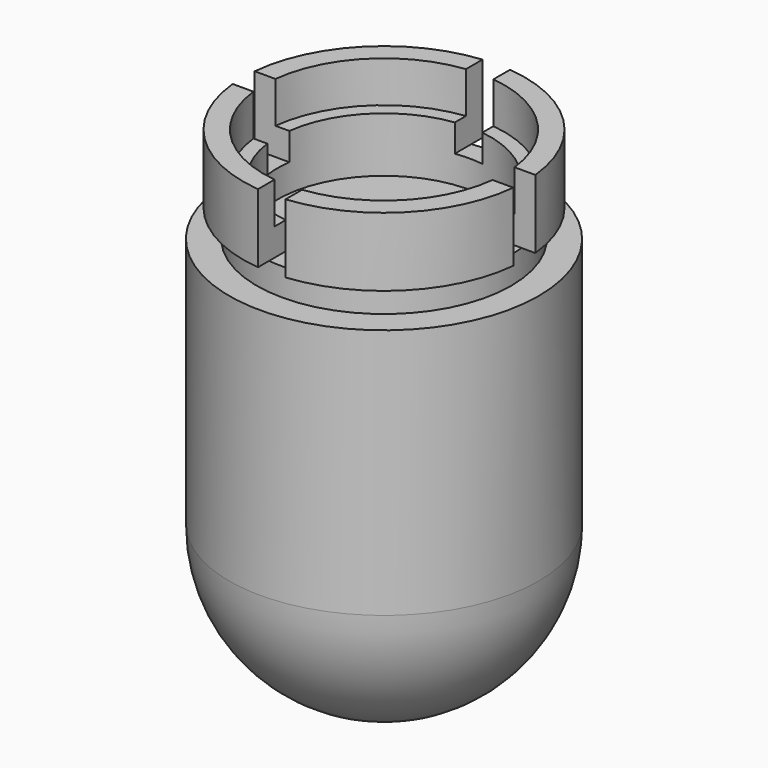
from build123d import *

# Parameters (mm, degrees)
F3_DEPTH      = 25
F3_DEPTH_BACK = 25
F5_DEPTH      = 25
F5_DEPTH_BACK = 25


with BuildPart() as f2:
    # F2: sweep along a path in F1
    with BuildLine(Plane.XY) as f2_path:
        CenterArc((0, 0), 11.25, 0, 360)
    # F0 (on Front) → F2 (sweep)
    with BuildSketch(Plane.XZ):
        with BuildLine():
            Line((10.25, -0.5), (9.25, -0.5))
            Line((9.25, -0.5), (7.75, -0.5))
            Line((7.75, -0.5), (1, -0.5))
            Line((1, -0.5), (0, -0.5))
            Line((0, -0.5), (0, -30))
            ThreePointArc((0, -30), (7.9549512883, -26.7049512883), (11.25, -18.75))
            Line((11.25, -18.75), (11.25, -0.5))
            Line((11.25, -0.5), (10.25, -0.5))
        make_face()
        Polygon((9.25, 1.5), (10.25, 1.5), (10.25, 6.5), (8.75, 6.5), (8.75, 3.5), (7.75, 3.5), (7.75, -0.5), (9.25, -0.5), align=None)
    sweep(path=f2_path.line)

    # F0 (on Front) → F3 (cut, two sides)
    with BuildSketch(Plane.XZ) as f3_sk:
        Polygon((-1, 1.5), (1, 1.5), (1, 6.5), (0, 6.5), (-1, 6.5), align=None)
    extrude(amount=-F3_DEPTH, mode=Mode.SUBTRACT)
    extrude(f3_sk.sketch, amount=F3_DEPTH_BACK, mode=Mode.SUBTRACT)

    # F4 (on Right) → F5 (cut, two sides)
    with BuildSketch(Plane.YZ) as f5_sk:
        Polygon((-1, 1.5), (0, 1.5), (1, 1.5), (1, 6.5), (-1, 6.5), align=None)
    extrude(amount=-F5_DEPTH, mode=Mode.SUBTRACT)
    extrude(f5_sk.sketch, amount=F5_DEPTH_BACK, mode=Mode.SUBTRACT)


solid = f2.part
